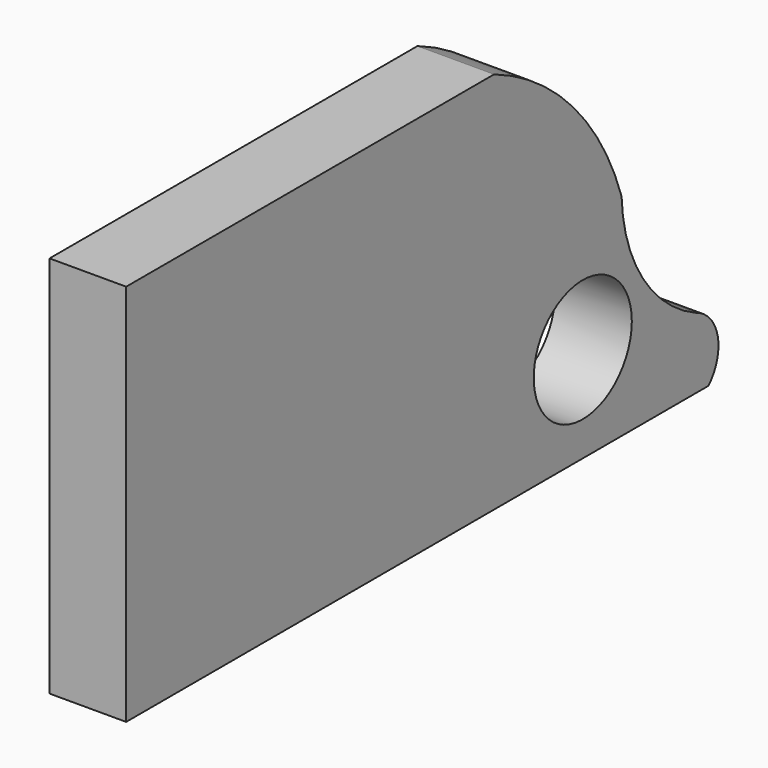
from build123d import *

# Parameters (mm, degrees)
F0_W     = 76.2
F0_H     = 63.5
F0_R     = 10.16
F1_DEPTH = 12.7


with BuildPart() as f1:
    # F0 (on Right) → F1 (new body)
    with BuildSketch(Plane.YZ):
        with Locations((-4.411608, 20.089365)):
            Rectangle(F0_W, F0_H)
        with BuildLine():
            ThreePointArc((60.11902, 23.297643), (50.024657, 40.458613), (33.688392, 51.839365))
            Line((33.688392, 51.839365), (33.688392, -11.660635))
            Line((33.688392, -11.660635), (78.110904, -11.660635))
            ThreePointArc((78.110904, -11.660635), (80.033968, -5.148121), (75.605892, 0))
            ThreePointArc((75.605892, 0), (64.57193, 9.461478), (60.11902, 23.297643))
        make_face()
        with Locations((52.079394, 4.20709)):
            Circle(F0_R, mode=Mode.SUBTRACT)
        with Locations((-4.411608, 20.089365)):
            Rectangle(F0_W, F0_H)
    extrude(amount=-F1_DEPTH)


solid = f1.part
